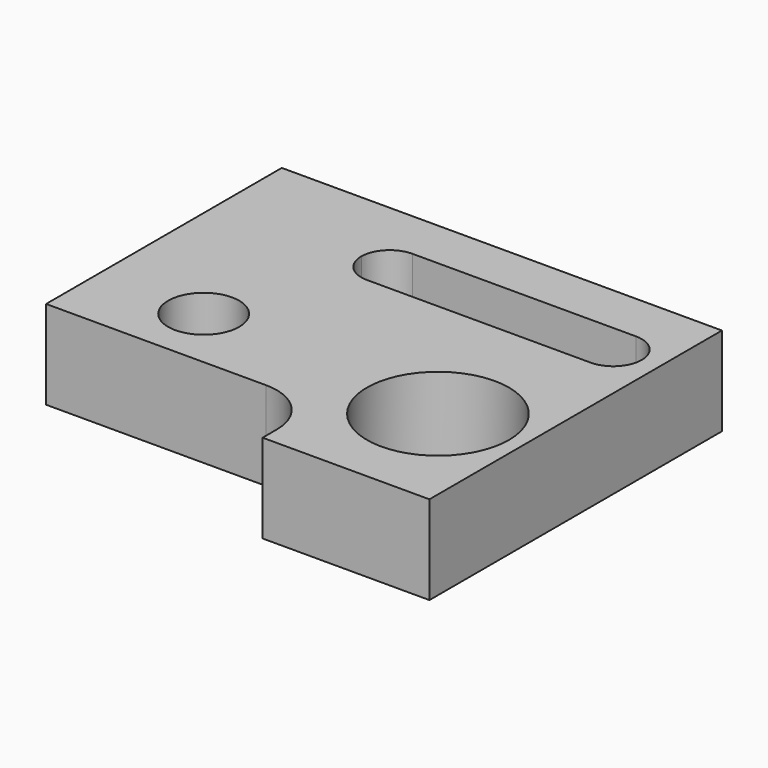
from build123d import *

# Parameters (mm, degrees)
F0_R     = 10
F0_R_2   = 20
F1_DEPTH = 25


with BuildPart() as f1:
    # F0 (on Top) → F1 (new body)
    with BuildSketch(Plane.XY):
        with BuildLine():
            Line((72.805556, 42.40408), (-51.194444, 42.40408))
            Line((-51.194444, 42.40408), (-51.194444, -40.59592))
            Line((-51.194444, -40.59592), (10.805556, -40.59592))
            ThreePointArc((10.805556, -40.59592), (21.412157, -44.989319), (25.805556, -55.59592))
            Line((25.805556, -55.59592), (25.805556, -60.59592))
            Line((25.805556, -60.59592), (72.805556, -60.59592))
            Line((72.805556, -60.59592), (72.805556, 42.40408))
        make_face()
        with Locations((-21.194444, -22.59592)):
            Circle(F0_R, mode=Mode.SUBTRACT)
        with Locations((48.805556, -27.59592)):
            Circle(F0_R_2, mode=Mode.SUBTRACT)
        with BuildLine():
            Line((-3.194444, 28.40408), (59.805556, 28.40408))
            ThreePointArc((59.805556, 28.40408), (65.46241, 26.060934), (67.805556, 20.40408))
            ThreePointArc((67.805556, 20.40408), (65.46241, 14.747225), (59.805556, 12.40408))
            Line((59.805556, 12.40408), (-3.194444, 12.40408))
            ThreePointArc((-3.194444, 12.40408), (-8.851299, 14.747225), (-11.194444, 20.40408))
            ThreePointArc((-11.194444, 20.40408), (-8.851299, 26.060934), (-3.194444, 28.40408))
        make_face(mode=Mode.SUBTRACT)
    extrude(amount=F1_DEPTH)


solid = f1.part
